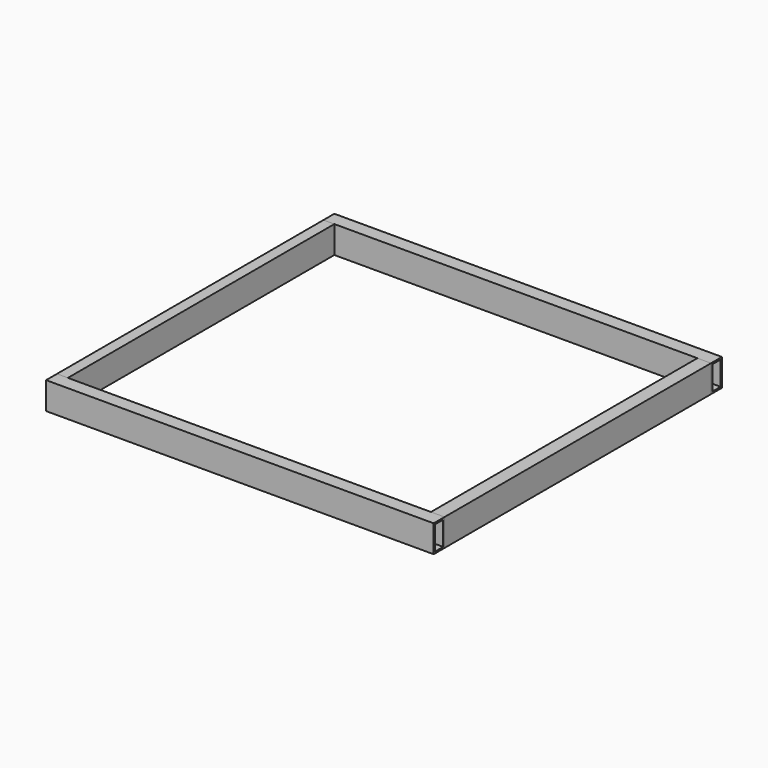
from build123d import *

# Parameters (mm, degrees)
F0_W     = 20
F0_H     = 50
F0_W_2   = 14
F0_H_2   = 44
F1_DEPTH = 611.2
F3_W     = 25
F3_H     = 50
F3_W_2   = 19
F3_H_2   = 44
F4_DEPTH = 711.2
F5_W     = 25
F5_H     = 50
F5_W_2   = 19
F5_H_2   = 44
F6_DEPTH = 611.2
F7_W     = 25
F7_H     = 50
F7_W_2   = 19
F7_H_2   = 44
F8_DEPTH = 711.2


with BuildPart() as f1:
    # F0 (on Front) → F1 (new body)
    with BuildSketch(Plane.XZ):
        with Locations((-10, 25)):
            Rectangle(F0_W, F0_H)
        with Locations((-10, 25)):
            Rectangle(F0_W_2, F0_H_2, mode=Mode.SUBTRACT)
    extrude(amount=F1_DEPTH)


with BuildPart() as f2_1:
    # F2: copy of F1
    add(f1.part)


with BuildPart() as f4:
    # F3 (on face) → F4 (new body)
    with BuildSketch(Plane(origin=(-20, 0, 0), x_dir=(0, -1, 0), z_dir=(-1, 0, 0))):
        with Locations((-12.5, 25)):
            Rectangle(F3_W, F3_H)
        with Locations((-12.5, 25)):
            Rectangle(F3_W_2, F3_H_2, mode=Mode.SUBTRACT)
    extrude(amount=-F4_DEPTH)


with BuildPart() as f6:
    # F5 (on face) → F6 (new body)
    with BuildSketch(Plane.XZ):
        with Locations((678.7, 25)):
            Rectangle(F5_W, F5_H)
        with Locations((678.7, 25)):
            Rectangle(F5_W_2, F5_H_2, mode=Mode.SUBTRACT)
    extrude(amount=F6_DEPTH)


with BuildPart() as f8:
    # F7 (on face) → F8 (new body)
    with BuildSketch(Plane.YZ.offset(691.2)):
        with Locations((-623.7, 25)):
            Rectangle(F7_W, F7_H)
        with Locations((-623.7, 25)):
            Rectangle(F7_W_2, F7_H_2, mode=Mode.SUBTRACT)
    extrude(amount=-F8_DEPTH)


solid = Compound([f1.part, f4.part, f6.part, f8.part])
